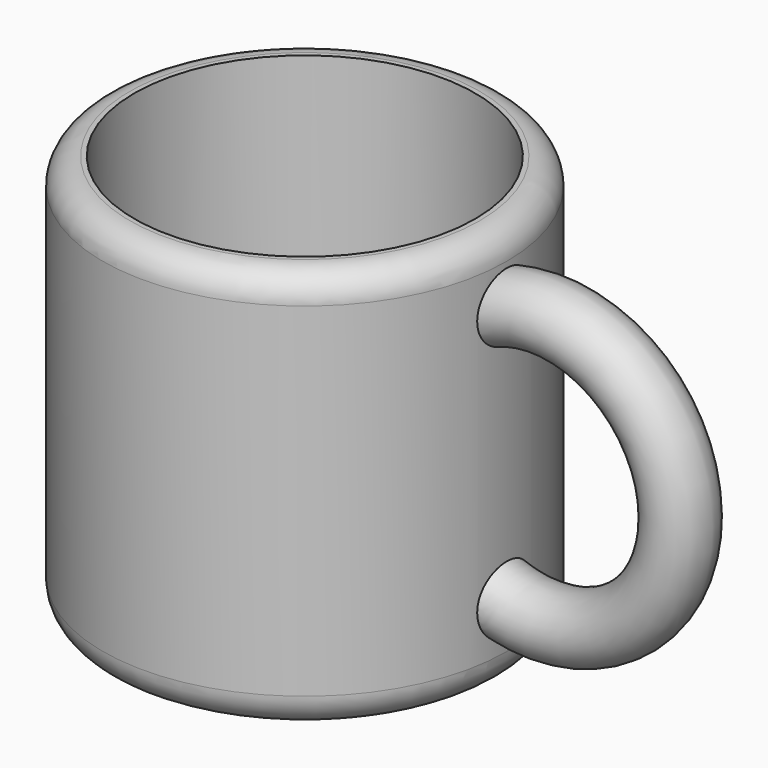
from build123d import *

# Parameters (mm, degrees)
F0_R     = 38.1
F1_DEPTH = 76.2
F4_R     = 6.3246
F6_R     = 32.1196500774
F7_DEPTH = 50.038
F8_R     = 5.08
F9_R     = 6.35


with BuildPart() as f1:
    # F0 (on Top) → F1 (new body)
    with BuildSketch(Plane.XY):
        Circle(F0_R)
    extrude(amount=F1_DEPTH)

    # F5: sweep along a path in F2
    with BuildLine(Plane.XZ) as f5_path:
        ThreePointArc((33.5242934525, 16.8796218932), (70.7589105159, 39.7583444109), (32.8120825502, 61.4353114321))
    # F4 (on offset) → F5 (sweep)
    with BuildSketch(Plane.YZ.offset(37.846)):
        with Locations((0, 63.6169761419)):
            Circle(F4_R)
    sweep(path=f5_path.line)

    # F6 (on face) → F7 (cut)
    with BuildSketch(Plane.XY.offset(76.2)):
        Circle(F6_R)
    extrude(amount=-F7_DEPTH, mode=Mode.SUBTRACT)

    # F8
    f8_edges = [f1.edges().sort_by_distance(p)[0] for p in [
        (-38.1, 0, 76.2),
    ]]
    fillet(f8_edges, radius=F8_R)

    # F9
    f9_edges = [f1.edges().sort_by_distance(p)[0] for p in [
        (-38.1, 0, 0),
    ]]
    fillet(f9_edges, radius=F9_R)


solid = f1.part
